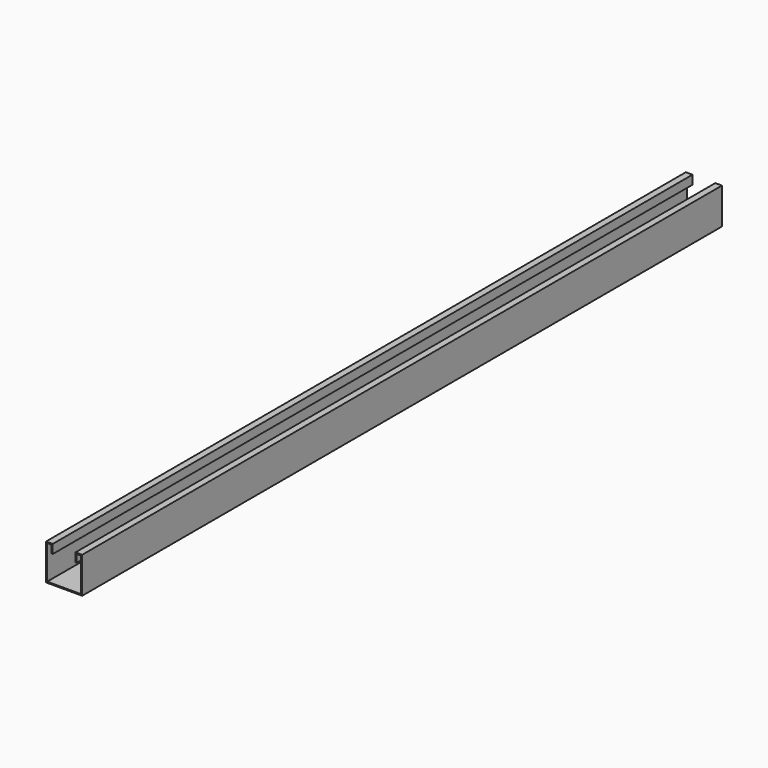
from build123d import *

# Parameters (mm, degrees)
F1_DEPTH = 914.4


with BuildPart() as f1:
    # F0 (on Front) → F1 (new body)
    with BuildSketch(Plane.XZ):
        Polygon((-13.0175, 20.6375), (-20.6375, 20.6375), (-20.6375, -20.6375), (20.6375, -20.6375), (20.6375, 20.6375), (13.0175, 20.6375), (13.0175, 10.4775), (14.2875, 10.4775), (14.2875, 19.3675), (19.3675, 19.3675), (19.3675, -19.3675), (-19.3675, -19.3675), (-19.3675, 19.3675), (-14.2875, 19.3675), (-14.2875, 10.4775), (-13.0175, 10.4775), align=None)
    extrude(amount=-F1_DEPTH)


solid = f1.part
